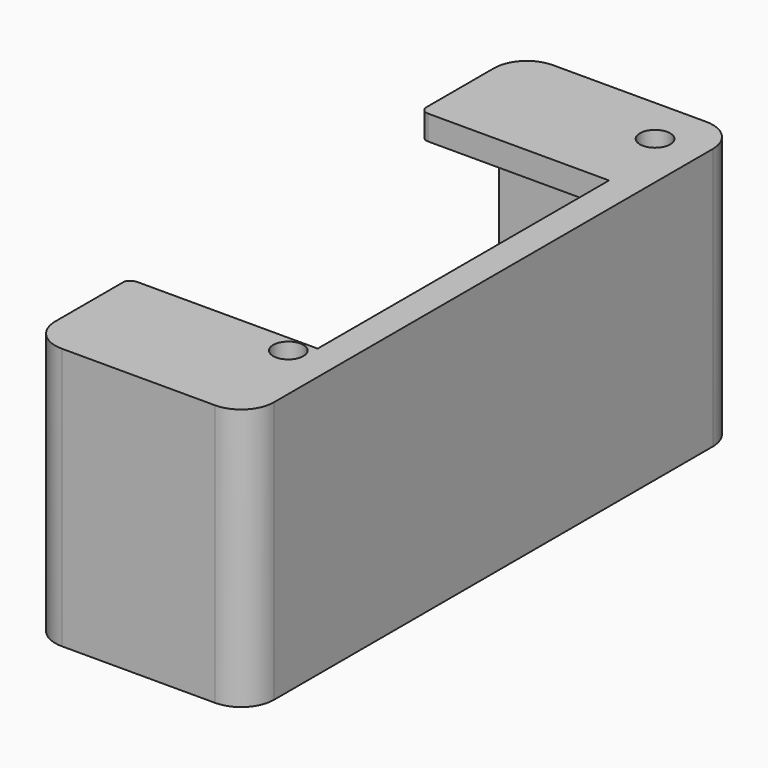
from build123d import *

# Parameters (mm, degrees)
SKETCH815_R             = 1.85
PAD351_DEPTH            = 32
POCKET_DEPTH            = 62
POCKET223_DEPTH         = 25
BODY022_PLACEMENT_ANGLE = 180


with BuildPart() as part:
    # Sketch815 → Pad351 (new body)
    with BuildSketch(Plane.XY):
        with BuildLine():
            Line((-1.610327, 37.5), (17.110638, 37.5))
            ThreePointArc((21.110638, 33.5), (19.939065, 36.328427), (17.110638, 37.5))
            Line((21.110638, 33.5), (21.110638, -33.5))
            ThreePointArc((17.110638, -37.5), (19.939065, -36.328427), (21.110638, -33.5))
            Line((17.110638, -37.5), (-1.610327, -37.5))
            ThreePointArc((-5.610327, -33.5), (-4.438754, -36.328427), (-1.610327, -37.5))
            Line((-5.610327, -33.5), (-5.610327, 33.5))
            ThreePointArc((-1.610327, 37.5), (-4.438754, 36.328427), (-5.610327, 33.5))
        make_face()
        with Locations((0, 24.3)):
            Circle(SKETCH815_R, mode=Mode.SUBTRACT)
        with Locations((0, -31.7)):
            Circle(SKETCH815_R, mode=Mode.SUBTRACT)
    extrude(amount=PAD351_DEPTH)

    # Sketch816 → Pocket (cut)
    with BuildSketch(Plane.XY.offset(65)):
        with BuildLine():
            Line((-1.941559, 22.241577), (20.093479, 22.241577))
            ThreePointArc((20.093479, 22.241577), (20.864733, 22.561041), (21.184197, 23.332295))
            Line((21.184197, 23.332295), (21.184197, 25.813278))
            Line((21.184197, 25.813278), (30.338089, 25.813278))
            Line((30.338089, 25.813278), (30.338089, 22.183402))
            Line((30.338089, 22.183402), (30.338089, -22.183402))
            Line((30.338089, -26.656548), (30.338089, -22.183402))
            Line((21.144989, -26.656548), (30.338089, -26.656548))
            Line((21.144989, -23.239975), (21.144989, -26.656548))
            ThreePointArc((21.144989, -23.239975), (20.852565, -22.534001), (20.146591, -22.241577))
            Line((20.146591, -22.241577), (-1.941559, -22.241577))
            Line((-1.941559, -22.241577), (-1.941559, 22.241577))
        make_face()
    extrude(amount=-POCKET_DEPTH, mode=Mode.SUBTRACT)

    # Sketch817 → Pocket223 (cut)
    with BuildSketch(Plane.XY.offset(4)):
        with BuildLine():
            Line((0, 36.1), (4.759236, 36.1))
            Line((4.759236, 36.1), (10.017961, 34.208318))
            Line((10.017961, 34.208318), (31.19193, 34.208318))
            Line((31.19193, 34.208318), (31.19193, -34.208318))
            Line((10.017961, -34.208318), (31.19193, -34.208318))
            Line((4.759236, -36.1), (10.017961, -34.208318))
            Line((4.759236, -36.1), (0, -36.1))
            ThreePointArc((-3.6, -32.5), (-2.545584, -35.045584), (0, -36.1))
            Line((-3.6, -32.5), (-3.6, 32.5))
            ThreePointArc((0, 36.1), (-2.545584, 35.045584), (-3.6, 32.5))
        make_face()
    extrude(amount=POCKET223_DEPTH, mode=Mode.SUBTRACT)


with BuildPart() as part_1:
    # Body022 placement: moved
    add(part.part.moved(Location((218, -96, -111))).rotate(Axis((218, -96, -111), (0, 0, 1)), BODY022_PLACEMENT_ANGLE))


solid = part_1.part
